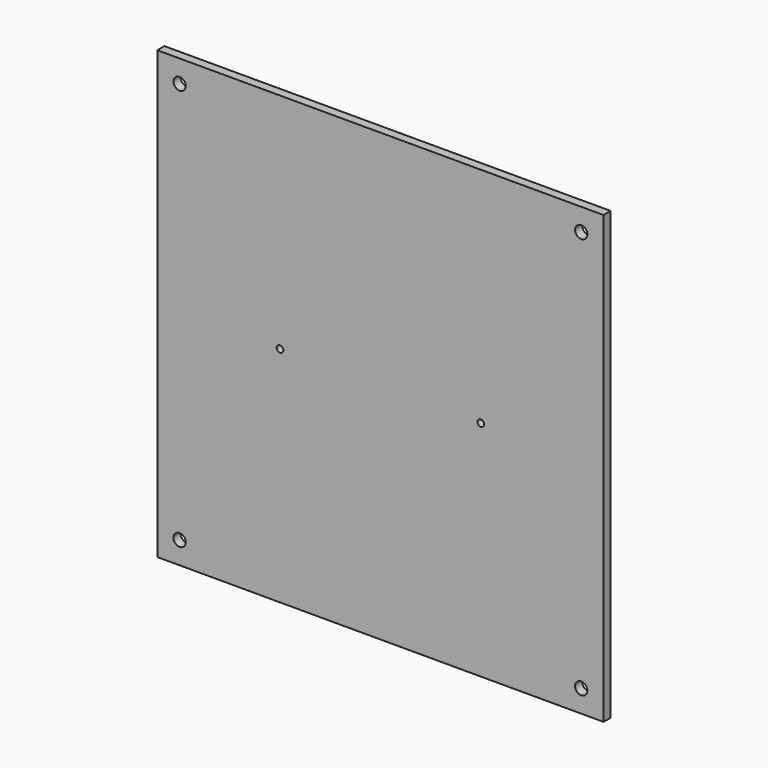
from build123d import *

# Parameters (mm, degrees)
F0_W     = 200
F0_H     = 200
F0_R     = 2.75
F0_R_2   = 1.5
F1_DEPTH = 4


with BuildPart() as f1:
    # F0 (on Front) → F1 (new body)
    with BuildSketch(Plane.XZ):
        Rectangle(F0_W, F0_H)
        with Locations((-90, -90)):
            Circle(F0_R, mode=Mode.SUBTRACT)
        with Locations((90, -90)):
            Circle(F0_R, mode=Mode.SUBTRACT)
        with Locations((-45, 0)):
            Circle(F0_R_2, mode=Mode.SUBTRACT)
        with Locations((-90, 90)):
            Circle(F0_R, mode=Mode.SUBTRACT)
        with Locations((45, 0)):
            Circle(F0_R_2, mode=Mode.SUBTRACT)
        with Locations((90, 90)):
            Circle(F0_R, mode=Mode.SUBTRACT)
    extrude(amount=F1_DEPTH)


solid = f1.part
